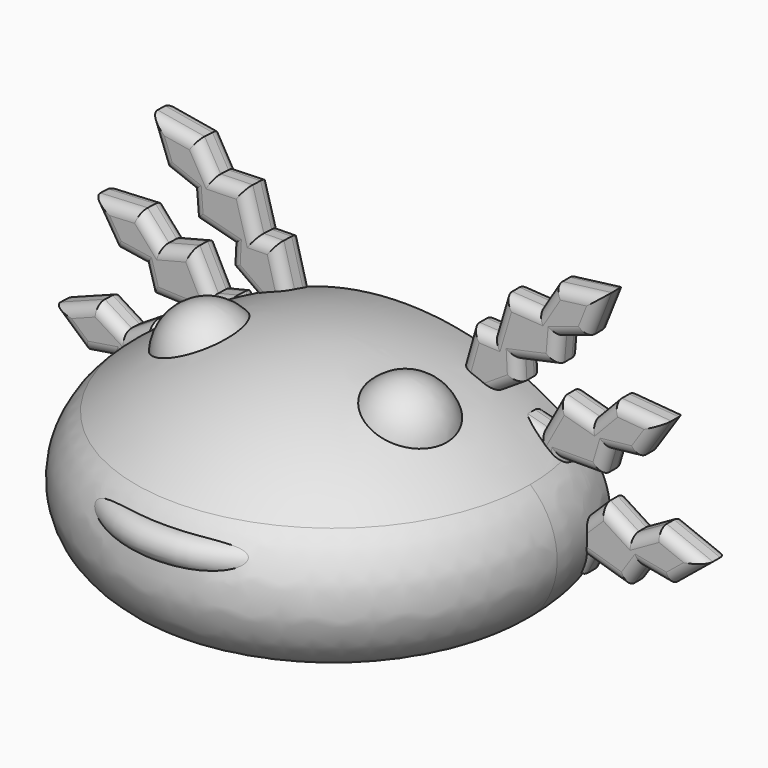
from build123d import *

# Parameters (mm, degrees)
TORUS_R                   = 0.5
BOX001_W                  = 25
BOX001_H                  = 25
BOX001_DEPTH              = 25
BOX_W                     = 25
BOX_H                     = 25
BOX_DEPTH                 = 25
FILLET_R                  = 2.5
EXTRUDE002_DEPTH          = 1
FILLET004_R               = 0.35
FILLET005_R               = 0.35
FILLET005_PLACEMENT_ANGLE = 12
EXTRUDE003_DEPTH          = 1
FILLET006_R               = 0.35
FILLET007_R               = 0.35
FILLET007_PLACEMENT_ANGLE = 29
EXTRUDE001_DEPTH          = 1
FILLET002_R               = 0.35
FILLET003_R               = 0.35
EXTRUDE005_DEPTH          = 1
FILLET010_R               = 0.35
FILLET011_R               = 0.35
FILLET011_PLACEMENT_ANGLE = 12
EXTRUDE006_DEPTH          = 1
FILLET012_R               = 0.35
FILLET013_R               = 0.35
FILLET013_PLACEMENT_ANGLE = 29
EXTRUDE004_DEPTH          = 1
FILLET008_R               = 0.35
FILLET009_R               = 0.35
FUSION003_PLACEMENT_ANGLE = 177


with BuildPart() as obj1:
    # Sphere001 → Sphere001 (revolve)
    with BuildSketch(Plane(origin=(3.2, -1.04, 8.64), x_dir=(1, 0, 0), z_dir=(0, -1, 0))):
        with BuildLine():
            ThreePointArc((0, -1.5), (1.5, 0), (0, 1.5))
            Line((0, 1.5), (0, -1.5))
        make_face()
    revolve(axis=Axis((3.2, -1.04, 8.64), (0, 0, 1)))


with BuildPart() as ojos:
    # Sphere002 → Sphere002 (revolve)
    with BuildSketch(Plane(origin=(-3.29, -1.04, 8.64), x_dir=(1, 0, 0), z_dir=(0, -1, 0))):
        with BuildLine():
            ThreePointArc((0, -1.5), (1.5, 0), (0, 1.5))
            Line((0, 1.5), (0, -1.5))
        make_face()
    revolve(axis=Axis((-3.29, -1.04, 8.64), (0, 0, 1)))

    # Fusion004: union obj1
    add(obj1.part)


with BuildPart() as torus:
    # Torus → Torus (revolve)
    with BuildSketch(Plane(origin=(0, -2.93, 6.66), x_dir=(1, 0, 0), z_dir=(0, -1, 0))):
        with Locations((4, 0)):
            Circle(TORUS_R)
    revolve(axis=Axis((0, -2.93, 6.66), (0, 0, 1)))


with BuildPart() as cube001:
    # Box001 → Box001 (new body)
    with BuildSketch(Plane(origin=(-13.22, -13.51, -21.78), x_dir=(1, 0, 0), z_dir=(0, 0, 1))):
        with Locations((12.5, 12.5)):
            Rectangle(BOX001_W, BOX001_H)
    extrude(amount=BOX001_DEPTH)


with BuildPart() as cube:
    # Box → Box (new body)
    with BuildSketch(Plane(origin=(-11.86, 2.94, -12.48), x_dir=(1, 0, 0), z_dir=(0, 0, 1))):
        with Locations((12.5, 12.5)):
            Rectangle(BOX_W, BOX_H)
    extrude(amount=BOX_DEPTH)


with BuildPart() as obj2:
    # Sphere → Sphere (revolve)
    with BuildSketch(Plane.XZ):
        with BuildLine():
            ThreePointArc((0, -10), (10, 0), (0, 10))
            Line((0, 10), (0, -10))
        make_face()
    revolve(axis=Axis((0, 0, 0), (0, 0, 1)))

    # Cut: cut Cube
    add(cube.part, mode=Mode.SUBTRACT)

    # Cut001: cut Cube001
    add(cube001.part, mode=Mode.SUBTRACT)

    # Fillet
    fillet_edges = [obj2.edges().sort_by_distance(p)[0] for p in [
        (-1.488513, -9.349649, 3.22),
    ]]
    fillet(fillet_edges, radius=FILLET_R)

    # Fusion005: union Torus
    add(torus.part)


with BuildPart() as obj3:
    # Sketch004 → Extrude002 (new body)
    with BuildSketch(Plane.XZ):
        Polygon((0, 9.968854), (0.507839, 11.756815), (1.195516, 11.722431), (1.573738, 12.994634), (2.674022, 12.925866), (3.224165, 13.819846), (4.840206, 14.02615), (4.290064, 12.650796), (3.361698, 12.34134), (3.292933, 11.516129), (2.020727, 11.241057), (2.055113, 10.587764), (0.989213, 9.900086), align=None)
    extrude(amount=EXTRUDE002_DEPTH)


with BuildPart() as obj3_1:
    # Extrude002 placement: moved
    add(obj3.part.moved(Location((0, 2.92, -0.63))))

    # Fillet004
    fillet004_edges = [obj3_1.edges().sort_by_distance(p)[0] for p in [
        (0.25392, 1.92, 10.232834),
        (0.851678, 1.92, 11.109623),
        (1.384627, 1.92, 11.728533),
        (2.12388, 1.92, 12.33025),
        (2.949094, 1.92, 12.742856),
        (4.032186, 1.92, 13.292998),
        (4.565135, 1.92, 12.708473),
        (3.825881, 1.92, 11.866068),
        (3.327316, 1.92, 11.298734),
        (2.65683, 1.92, 10.748593),
        (2.03792, 1.92, 10.28441),
        (1.522163, 1.92, 9.613925),
    ]]
    fillet(fillet004_edges, radius=FILLET004_R)

    # Fillet005
    fillet005_edges = [obj3_1.edges().sort_by_distance(p)[0] for p in [
        (0.25392, 2.92, 10.232834),
        (0.851678, 2.92, 11.109623),
        (1.384627, 2.92, 11.728533),
        (2.12388, 2.92, 12.33025),
        (2.949094, 2.92, 12.742856),
        (4.032186, 2.92, 13.292998),
        (4.565135, 2.92, 12.708473),
        (3.825881, 2.92, 11.866068),
        (3.327316, 2.92, 11.298734),
        (2.65683, 2.92, 10.748593),
        (2.03792, 2.92, 10.28441),
        (1.522163, 2.92, 9.613925),
    ]]
    fillet(fillet005_edges, radius=FILLET005_R)


with BuildPart() as obj3_2:
    # Fillet005 placement: moved
    add(obj3_1.part.moved(Location((2.187084, -0.53, -2.294323))).rotate(Axis((2.187084, -0.53, -2.294323), (0, 1, 0)), FILLET005_PLACEMENT_ANGLE))


with BuildPart() as obj4:
    # Sketch005 → Extrude003 (new body)
    with BuildSketch(Plane.XZ):
        Polygon((0, 9.968854), (0.507839, 11.756815), (1.195516, 11.722431), (1.573738, 12.994634), (2.674022, 12.925866), (3.224165, 13.819846), (4.840206, 14.02615), (4.290064, 12.650796), (3.361698, 12.34134), (3.292933, 11.516129), (2.020727, 11.241057), (2.055113, 10.587764), (0.989213, 9.900086), align=None)
    extrude(amount=EXTRUDE003_DEPTH)


with BuildPart() as obj4_1:
    # Extrude003 placement: moved
    add(obj4.part.moved(Location((0, 2.92, -0.63))))

    # Fillet006
    fillet006_edges = [obj4_1.edges().sort_by_distance(p)[0] for p in [
        (0.25392, 1.92, 10.232834),
        (0.851678, 1.92, 11.109623),
        (1.384627, 1.92, 11.728533),
        (2.12388, 1.92, 12.33025),
        (2.949094, 1.92, 12.742856),
        (4.032186, 1.92, 13.292998),
        (4.565135, 1.92, 12.708473),
        (3.825881, 1.92, 11.866068),
        (3.327316, 1.92, 11.298734),
        (2.65683, 1.92, 10.748593),
        (2.03792, 1.92, 10.28441),
        (1.522163, 1.92, 9.613925),
    ]]
    fillet(fillet006_edges, radius=FILLET006_R)

    # Fillet007
    fillet007_edges = [obj4_1.edges().sort_by_distance(p)[0] for p in [
        (0.25392, 2.92, 10.232834),
        (0.851678, 2.92, 11.109623),
        (1.384627, 2.92, 11.728533),
        (2.12388, 2.92, 12.33025),
        (2.949094, 2.92, 12.742856),
        (4.032186, 2.92, 13.292998),
        (4.565135, 2.92, 12.708473),
        (3.825881, 2.92, 11.866068),
        (3.327316, 2.92, 11.298734),
        (2.65683, 2.92, 10.748593),
        (2.03792, 2.92, 10.28441),
        (1.522163, 2.92, 9.613925),
    ]]
    fillet(fillet007_edges, radius=FILLET007_R)


with BuildPart() as obj4_2:
    # Fillet007 placement: moved
    add(obj4_1.part.moved(Location((0.337681, -0.53, -3.185653))).rotate(Axis((0.337681, -0.53, -3.185653), (0, 1, 0)), FILLET007_PLACEMENT_ANGLE))


with BuildPart() as obj5:
    # Sketch003 → Extrude001 (new body)
    with BuildSketch(Plane.XZ):
        Polygon((0, 9.968854), (0.507839, 11.756815), (1.195516, 11.722431), (1.573738, 12.994634), (2.674022, 12.925866), (3.224165, 13.819846), (4.840206, 14.02615), (4.290064, 12.650796), (3.361698, 12.34134), (3.292933, 11.516129), (2.020727, 11.241057), (2.055113, 10.587764), (0.989213, 9.900086), align=None)
    extrude(amount=EXTRUDE001_DEPTH)


with BuildPart() as obj5_1:
    # Extrude001 placement: moved
    add(obj5.part.moved(Location((0, 2.92, -0.63))))

    # Fillet002
    fillet002_edges = [obj5_1.edges().sort_by_distance(p)[0] for p in [
        (0.25392, 1.92, 10.232834),
        (0.851678, 1.92, 11.109623),
        (1.384627, 1.92, 11.728533),
        (2.12388, 1.92, 12.33025),
        (2.949094, 1.92, 12.742856),
        (4.032186, 1.92, 13.292998),
        (4.565135, 1.92, 12.708473),
        (3.825881, 1.92, 11.866068),
        (3.327316, 1.92, 11.298734),
        (2.65683, 1.92, 10.748593),
        (2.03792, 1.92, 10.28441),
        (1.522163, 1.92, 9.613925),
    ]]
    fillet(fillet002_edges, radius=FILLET002_R)

    # Fillet003
    fillet003_edges = [obj5_1.edges().sort_by_distance(p)[0] for p in [
        (0.25392, 2.92, 10.232834),
        (0.851678, 2.92, 11.109623),
        (1.384627, 2.92, 11.728533),
        (2.12388, 2.92, 12.33025),
        (2.949094, 2.92, 12.742856),
        (4.032186, 2.92, 13.292998),
        (4.565135, 2.92, 12.708473),
        (3.825881, 2.92, 11.866068),
        (3.327316, 2.92, 11.298734),
        (2.65683, 2.92, 10.748593),
        (2.03792, 2.92, 10.28441),
        (1.522163, 2.92, 9.613925),
    ]]
    fillet(fillet003_edges, radius=FILLET003_R)


with BuildPart() as obj5_2:
    # Fillet003 placement: moved
    add(obj5_1.part.moved(Location((2.91, -0.53, -0.52))))

    # Fusion002: union obj3, obj4
    add(obj3_2.part)
    add(obj4_2.part)


with BuildPart() as obj6:
    # Sketch007 → Extrude005 (new body)
    with BuildSketch(Plane.XZ):
        Polygon((0, 9.968854), (0.507839, 11.756815), (1.195516, 11.722431), (1.573738, 12.994634), (2.674022, 12.925866), (3.224165, 13.819846), (4.840206, 14.02615), (4.290064, 12.650796), (3.361698, 12.34134), (3.292933, 11.516129), (2.020727, 11.241057), (2.055113, 10.587764), (0.989213, 9.900086), align=None)
    extrude(amount=EXTRUDE005_DEPTH)


with BuildPart() as obj6_1:
    # Extrude005 placement: moved
    add(obj6.part.moved(Location((0, 2.92, -0.63))))

    # Fillet010
    fillet010_edges = [obj6_1.edges().sort_by_distance(p)[0] for p in [
        (0.25392, 1.92, 10.232834),
        (0.851678, 1.92, 11.109623),
        (1.384627, 1.92, 11.728533),
        (2.12388, 1.92, 12.33025),
        (2.949094, 1.92, 12.742856),
        (4.032186, 1.92, 13.292998),
        (4.565135, 1.92, 12.708473),
        (3.825881, 1.92, 11.866068),
        (3.327316, 1.92, 11.298734),
        (2.65683, 1.92, 10.748593),
        (2.03792, 1.92, 10.28441),
        (1.522163, 1.92, 9.613925),
    ]]
    fillet(fillet010_edges, radius=FILLET010_R)

    # Fillet011
    fillet011_edges = [obj6_1.edges().sort_by_distance(p)[0] for p in [
        (0.25392, 2.92, 10.232834),
        (0.851678, 2.92, 11.109623),
        (1.384627, 2.92, 11.728533),
        (2.12388, 2.92, 12.33025),
        (2.949094, 2.92, 12.742856),
        (4.032186, 2.92, 13.292998),
        (4.565135, 2.92, 12.708473),
        (3.825881, 2.92, 11.866068),
        (3.327316, 2.92, 11.298734),
        (2.65683, 2.92, 10.748593),
        (2.03792, 2.92, 10.28441),
        (1.522163, 2.92, 9.613925),
    ]]
    fillet(fillet011_edges, radius=FILLET011_R)


with BuildPart() as obj6_2:
    # Fillet011 placement: moved
    add(obj6_1.part.moved(Location((2.187084, -0.53, -2.294323))).rotate(Axis((2.187084, -0.53, -2.294323), (0, 1, 0)), FILLET011_PLACEMENT_ANGLE))


with BuildPart() as obj7:
    # Sketch008 → Extrude006 (new body)
    with BuildSketch(Plane.XZ):
        Polygon((0, 9.968854), (0.507839, 11.756815), (1.195516, 11.722431), (1.573738, 12.994634), (2.674022, 12.925866), (3.224165, 13.819846), (4.840206, 14.02615), (4.290064, 12.650796), (3.361698, 12.34134), (3.292933, 11.516129), (2.020727, 11.241057), (2.055113, 10.587764), (0.989213, 9.900086), align=None)
    extrude(amount=EXTRUDE006_DEPTH)


with BuildPart() as obj7_1:
    # Extrude006 placement: moved
    add(obj7.part.moved(Location((0, 2.92, -0.63))))

    # Fillet012
    fillet012_edges = [obj7_1.edges().sort_by_distance(p)[0] for p in [
        (0.25392, 1.92, 10.232834),
        (0.851678, 1.92, 11.109623),
        (1.384627, 1.92, 11.728533),
        (2.12388, 1.92, 12.33025),
        (2.949094, 1.92, 12.742856),
        (4.032186, 1.92, 13.292998),
        (4.565135, 1.92, 12.708473),
        (3.825881, 1.92, 11.866068),
        (3.327316, 1.92, 11.298734),
        (2.65683, 1.92, 10.748593),
        (2.03792, 1.92, 10.28441),
        (1.522163, 1.92, 9.613925),
    ]]
    fillet(fillet012_edges, radius=FILLET012_R)

    # Fillet013
    fillet013_edges = [obj7_1.edges().sort_by_distance(p)[0] for p in [
        (0.25392, 2.92, 10.232834),
        (0.851678, 2.92, 11.109623),
        (1.384627, 2.92, 11.728533),
        (2.12388, 2.92, 12.33025),
        (2.949094, 2.92, 12.742856),
        (4.032186, 2.92, 13.292998),
        (4.565135, 2.92, 12.708473),
        (3.825881, 2.92, 11.866068),
        (3.327316, 2.92, 11.298734),
        (2.65683, 2.92, 10.748593),
        (2.03792, 2.92, 10.28441),
        (1.522163, 2.92, 9.613925),
    ]]
    fillet(fillet013_edges, radius=FILLET013_R)


with BuildPart() as obj7_2:
    # Fillet013 placement: moved
    add(obj7_1.part.moved(Location((0.337681, -0.53, -3.185653))).rotate(Axis((0.337681, -0.53, -3.185653), (0, 1, 0)), FILLET013_PLACEMENT_ANGLE))


with BuildPart() as obj8:
    # Sketch006 → Extrude004 (new body)
    with BuildSketch(Plane.XZ):
        Polygon((0, 9.96615), (0.507839, 11.756815), (1.195516, 11.722431), (1.573738, 12.994634), (2.674022, 12.925866), (3.224165, 13.819846), (4.840206, 14.02615), (4.290064, 12.650796), (3.361698, 12.34134), (3.292933, 11.516129), (2.020727, 11.241057), (2.055113, 10.587764), (0.989213, 9.900086), align=None)
    extrude(amount=EXTRUDE004_DEPTH)


with BuildPart() as obj8_1:
    # Extrude004 placement: moved
    add(obj8.part.moved(Location((0, 2.92, -0.63))))

    # Fillet008
    fillet008_edges = [obj8_1.edges().sort_by_distance(p)[0] for p in [
        (0.253919, 1.92, 10.231482),
        (0.851678, 1.92, 11.109623),
        (1.384627, 1.92, 11.728533),
        (2.12388, 1.92, 12.33025),
        (2.949094, 1.92, 12.742856),
        (4.032186, 1.92, 13.292998),
        (4.565135, 1.92, 12.708473),
        (3.825881, 1.92, 11.866068),
        (3.327316, 1.92, 11.298734),
        (2.65683, 1.92, 10.748593),
        (2.03792, 1.92, 10.28441),
        (1.522163, 1.92, 9.613925),
    ]]
    fillet(fillet008_edges, radius=FILLET008_R)

    # Fillet009
    fillet009_edges = [obj8_1.edges().sort_by_distance(p)[0] for p in [
        (0.253919, 2.92, 10.231482),
        (0.851678, 2.92, 11.109623),
        (1.384627, 2.92, 11.728533),
        (2.12388, 2.92, 12.33025),
        (2.949094, 2.92, 12.742856),
        (4.032186, 2.92, 13.292998),
        (4.565135, 2.92, 12.708473),
        (3.825881, 2.92, 11.866068),
        (3.327316, 2.92, 11.298734),
        (2.65683, 2.92, 10.748593),
        (2.03792, 2.92, 10.28441),
        (1.522163, 2.92, 9.613925),
    ]]
    fillet(fillet009_edges, radius=FILLET009_R)


with BuildPart() as obj8_2:
    # Fillet009 placement: moved
    add(obj8_1.part.moved(Location((2.91, -0.53, -0.52))))

    # Fusion003: union obj6, obj7
    add(obj6_2.part)
    add(obj7_2.part)


with BuildPart() as obj8_3:
    # Fusion003 placement: moved
    add(obj8_2.part.moved(Location((0.102025, 4.120197, -0.07))).rotate(Axis((0.102025, 4.120197, -0.07), (0, 0, 1)), FUSION003_PLACEMENT_ANGLE))

    # Fusion: union obj5
    add(obj5_2.part)

    # Fusion006: union ojos, obj2
    add(ojos.part)
    add(obj2.part)


solid = obj8_3.part
